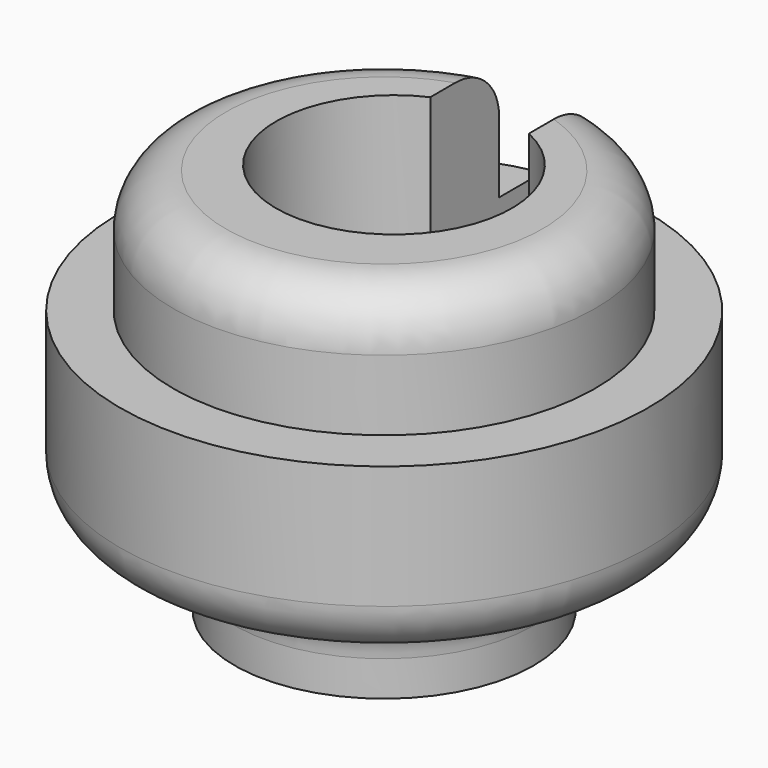
from build123d import *

# Parameters (mm, degrees)
F0_R      = 9.525
F1_DEPTH  = 6.35
F2_R      = 7.62
F3_DEPTH  = 4.445
F4_R      = 5.3975
F4_R_2    = 3.175
F5_DEPTH  = 3.175
F6_W      = 3.556
F6_H      = 25.4
F7_DEPTH  = 12.7
F8_W      = 3.556
F8_H      = 10.795
F9_DEPTH  = 1.905
F10_R     = 1.5875
F11_R     = 1.905
F12_R     = 4.251833
F13_DEPTH = 9.525


with BuildPart() as f1:
    # F0 (on Top) → F1 (new body)
    with BuildSketch(Plane.XY):
        Circle(F0_R)
    extrude(amount=F1_DEPTH)

    # F2 (on face) → F3 (join)
    with BuildSketch(Plane.XY.offset(6.35)):
        Circle(F2_R)
    extrude(amount=F3_DEPTH)

    # F4 (on face) → F5 (join)
    with BuildSketch(Plane(origin=(0, 0, 0), x_dir=(1, 0, 0), z_dir=(0, 0, -1))):
        Circle(F4_R)
        Circle(F4_R_2, mode=Mode.SUBTRACT)
    extrude(amount=F5_DEPTH)

    # F6 (on Front) → F7 (cut)
    with BuildSketch(Plane.XZ):
        with Locations((0, 0.635)):
            Rectangle(F6_W, F6_H)
    extrude(amount=-F7_DEPTH, mode=Mode.SUBTRACT)

    # F8 (on face) → F9 (cut)
    with BuildSketch(Plane(origin=(0, 0, 0), x_dir=(-1, 0, 0), z_dir=(0, 1, 0))):
        with Locations((0, 5.3975)):
            Rectangle(F8_W, F8_H)
    extrude(amount=-F9_DEPTH, mode=Mode.SUBTRACT)

    # F10
    f10_edges = [f1.edges().sort_by_distance(p)[0] for p in [
        (-1.778, -1.905, 5.3975),
        (1.778, -1.905, 5.3975),
    ]]
    fillet(f10_edges, radius=F10_R)

    # F11
    f11_edges = [f1.edges().sort_by_distance(p)[0] for p in [
        (0, -5.3975, 0),
        (0, -9.525, 0),
        (0, -7.62, 10.795),
    ]]
    fillet(f11_edges, radius=F11_R)

    # F12 (on face) → F13 (cut)
    with BuildSketch(Plane.XY.offset(10.795)):
        with Locations((0, 0.441833)):
            Circle(F12_R)
    extrude(amount=-F13_DEPTH, mode=Mode.SUBTRACT)


solid = f1.part
